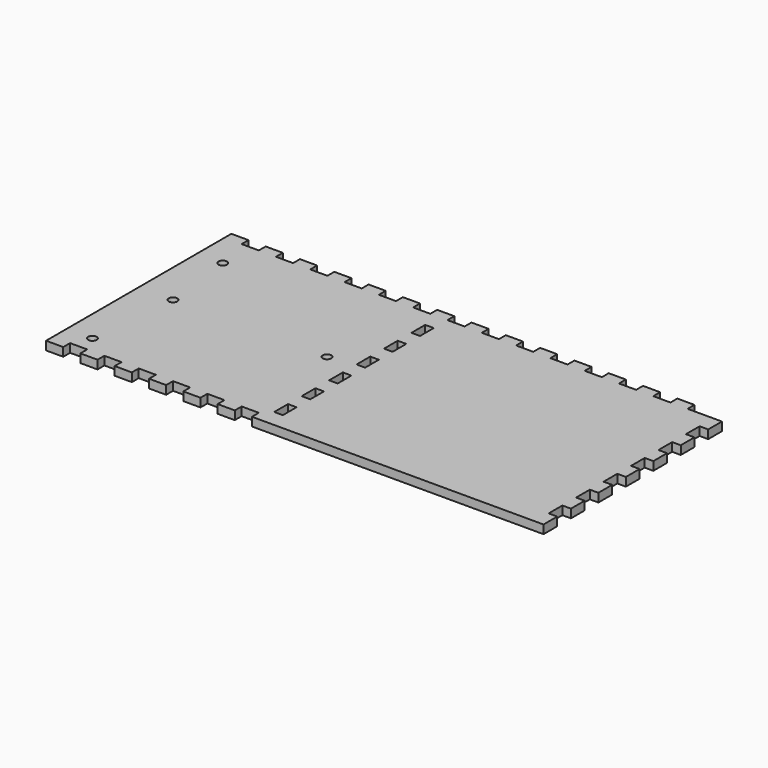
from build123d import *

# Parameters (mm, degrees)
SKETCH_W        = 290
SKETCH_H        = 130
PAD_DEPTH       = 2.5
SKETCH001_R     = 2.5
POCKET_DEPTH    = 5.001
SKETCH002_W     = 5
SKETCH002_H     = 10
POCKET001_DEPTH = 5.001
SKETCH003_W     = 10
SKETCH003_H     = 5
PAD001_DEPTH    = 5
SKETCH004_W     = 10
SKETCH004_H     = 5
POCKET002_DEPTH = 5.001
SKETCH005_W     = 5
SKETCH005_H     = 10
POCKET003_DEPTH = 5.001
SKETCH006_R     = 2.5
POCKET004_DEPTH = 5.001


with BuildPart() as part:
    # Sketch → Pad (new body, symmetric)
    with BuildSketch(Plane.XY):
        with Locations((145, 65)):
            Rectangle(SKETCH_W, SKETCH_H)
    extrude(amount=PAD_DEPTH, both=True)

    # Sketch001 (on Face6 of Pad) → Pocket (cut, through all)
    with BuildSketch(Plane.XY.offset(2.5)):
        with Locations((15, 110)):
            Circle(SKETCH001_R)
        with Locations((15, 15)):
            Circle(SKETCH001_R)
    extrude(amount=-POCKET_DEPTH, mode=Mode.SUBTRACT)

    # Sketch002 (on Face5 of Pocket) → Pocket001 (cut, through all)
    with BuildSketch(Plane.XY.offset(2.5)):
        with Locations((287.5, 15)):
            Rectangle(SKETCH002_W, SKETCH002_H)
        with Locations((287.5, 35)):
            Rectangle(SKETCH002_W, SKETCH002_H)
        with Locations((287.5, 55)):
            Rectangle(SKETCH002_W, SKETCH002_H)
        with Locations((287.5, 75)):
            Rectangle(SKETCH002_W, SKETCH002_H)
        with Locations((287.5, 95)):
            Rectangle(SKETCH002_W, SKETCH002_H)
        with Locations((287.5, 115)):
            Rectangle(SKETCH002_W, SKETCH002_H)
    extrude(amount=-POCKET001_DEPTH, mode=Mode.SUBTRACT)

    # Sketch003 (on Face5 of Pocket001) → Pad001 (join)
    with BuildSketch(Plane.XY.offset(2.5)):
        with Locations((5, 132.5)):
            Rectangle(SKETCH003_W, SKETCH003_H)
        with Locations((25, 132.5)):
            Rectangle(SKETCH003_W, SKETCH003_H)
        with Locations((45, 132.5)):
            Rectangle(SKETCH003_W, SKETCH003_H)
        with Locations((65, 132.5)):
            Rectangle(SKETCH003_W, SKETCH003_H)
        with Locations((85, 132.5)):
            Rectangle(SKETCH003_W, SKETCH003_H)
        with Locations((105, 132.5)):
            Rectangle(SKETCH003_W, SKETCH003_H)
        with Locations((125, 132.5)):
            Rectangle(SKETCH003_W, SKETCH003_H)
        with Locations((145, 132.5)):
            Rectangle(SKETCH003_W, SKETCH003_H)
        with Locations((165, 132.5)):
            Rectangle(SKETCH003_W, SKETCH003_H)
        with Locations((185, 132.5)):
            Rectangle(SKETCH003_W, SKETCH003_H)
        with Locations((205, 132.5)):
            Rectangle(SKETCH003_W, SKETCH003_H)
        with Locations((225, 132.5)):
            Rectangle(SKETCH003_W, SKETCH003_H)
        with Locations((245, 132.5)):
            Rectangle(SKETCH003_W, SKETCH003_H)
        with Locations((265, 132.5)):
            Rectangle(SKETCH003_W, SKETCH003_H)
    extrude(amount=-PAD001_DEPTH)

    # Sketch004 (on Face86 of Pad001) → Pocket002 (cut, through all)
    with BuildSketch(Plane.XY.offset(2.5)):
        with Locations((15, 2.5)):
            Rectangle(SKETCH004_W, SKETCH004_H)
        with Locations((35, 2.5)):
            Rectangle(SKETCH004_W, SKETCH004_H)
        with Locations((55, 2.5)):
            Rectangle(SKETCH004_W, SKETCH004_H)
        with Locations((75, 2.5)):
            Rectangle(SKETCH004_W, SKETCH004_H)
        with Locations((95, 2.5)):
            Rectangle(SKETCH004_W, SKETCH004_H)
        with Locations((115, 2.5)):
            Rectangle(SKETCH004_W, SKETCH004_H)
    extrude(amount=-POCKET002_DEPTH, mode=Mode.SUBTRACT)

    # Sketch005 (on Face4 of Pocket002) → Pocket003 (cut, through all)
    with BuildSketch(Plane.XY.offset(2.5)):
        with Locations((127.5, 15)):
            Rectangle(SKETCH005_W, SKETCH005_H)
        with Locations((127.5, 35)):
            Rectangle(SKETCH005_W, SKETCH005_H)
        with Locations((127.5, 55)):
            Rectangle(SKETCH005_W, SKETCH005_H)
        with Locations((127.5, 75)):
            Rectangle(SKETCH005_W, SKETCH005_H)
        with Locations((127.5, 95)):
            Rectangle(SKETCH005_W, SKETCH005_H)
        with Locations((127.5, 115)):
            Rectangle(SKETCH005_W, SKETCH005_H)
    extrude(amount=-POCKET003_DEPTH, mode=Mode.SUBTRACT)

    # Sketch006 (on Face4 of Pocket003) → Pocket004 (cut, through all)
    with BuildSketch(Plane.XY.offset(2.5)):
        with Locations((20, 67.5)):
            Circle(SKETCH006_R)
        with Locations((109.8, 67.5)):
            Circle(SKETCH006_R)
    extrude(amount=-POCKET004_DEPTH, mode=Mode.SUBTRACT)


solid = part.part
